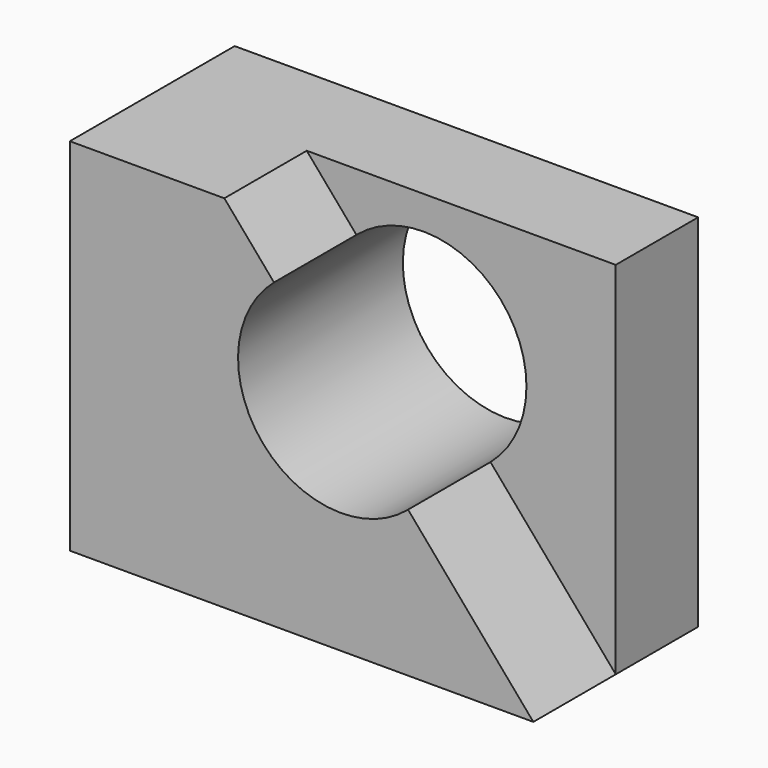
from build123d import *

# Parameters (mm, degrees)
F0_W     = 25.4
F0_H     = 88.9
F1_DEPTH = 114.3
F3_DEPTH = 25.4
F5_DEPTH = 50.801


with BuildPart() as f1:
    # F0 (on Right) → F1 (new body)
    with BuildSketch(Plane.YZ):
        with Locations((-2.9790955596, 18.0637241125)):
            Rectangle(F0_W, F0_H)
    extrude(amount=-F1_DEPTH)

    # F2 (on face) → F3 (join)
    with BuildSketch(Plane.XZ.offset(15.6790955596)):
        Polygon((-76.2, 62.5137241125), (-114.3, 62.5137241125), (-114.3, -26.3862758875), (0, -26.3862758875), align=None)
    extrude(amount=F3_DEPTH)

    # F4 (on face) → F5 (cut, through all)
    with BuildSketch(Plane.XZ.offset(41.0790955596)):
        with BuildLine():
            Line((-30.8922379172, 9.6546683493), (-63.9524396888, 48.2249037495))
            ThreePointArc((-63.9524396888, 48.2249037495), (-66.7074565031, 12.4096851636), (-30.8922379172, 9.6546683493))
        make_face()
        with BuildLine():
            ThreePointArc((-30.8922379172, 9.6546683493), (-24.3461111813, 18.3262230873), (-22.022338803, 28.9397860494))
            ThreePointArc((-22.022338803, 28.9397860494), (-36.8087758409, 52.0160136711), (-63.9524396888, 48.2249037495))
            Line((-63.9524396888, 48.2249037495), (-30.8922379172, 9.6546683493))
        make_face()
    extrude(amount=-F5_DEPTH, mode=Mode.SUBTRACT)


solid = f1.part
